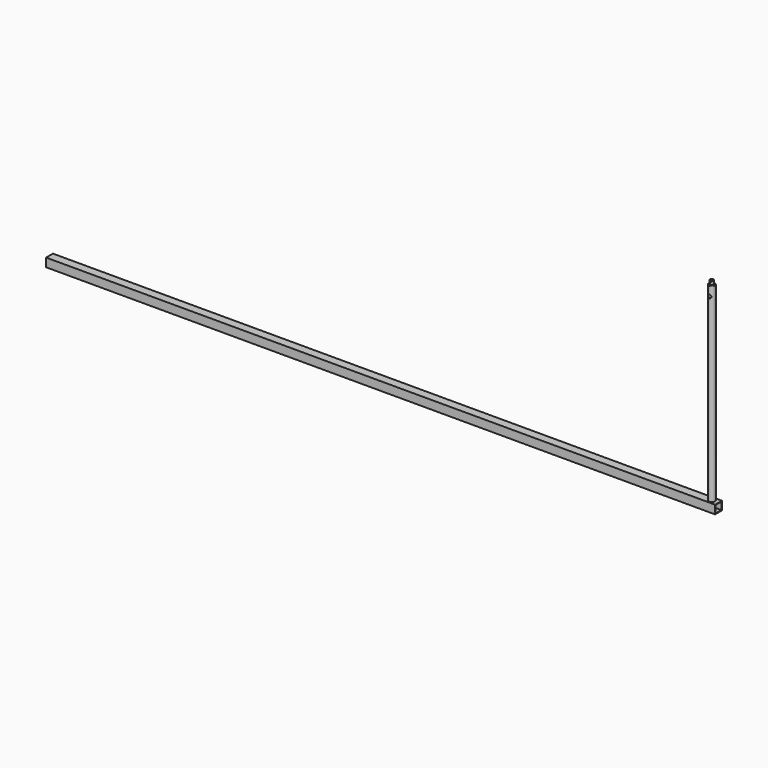
from build123d import *

# Parameters (mm, degrees)
F0_W      = 32
F0_H      = 32
F0_W_2    = 28
F0_H_2    = 28
F1_DEPTH  = 25
F2_DEPTH  = 2475
F3_R      = 11.55
F3_R_2    = 9.55
F4_DEPTH  = 710
F5_R      = 9.55
F6_DEPTH  = 25
F7_R      = 6.35
F8_DEPTH  = 15
F9_R      = 1.5
F10_DEPTH = 6.5
F11_R     = 9.55
F11_R_2   = 6.35
F12_DEPTH = 2
F13_R     = 6.35
F14_DEPTH = 25


with BuildPart() as f1:
    # F0 (on Right) → F1 (new body)
    with BuildSketch(Plane.YZ):
        Rectangle(F0_W, F0_H)
        Rectangle(F0_W_2, F0_H_2, mode=Mode.SUBTRACT)
    extrude(amount=F1_DEPTH)

    # F0 (on Right) → F2 (join)
    with BuildSketch(Plane.YZ):
        Rectangle(F0_W, F0_H)
        Rectangle(F0_W_2, F0_H_2, mode=Mode.SUBTRACT)
    extrude(amount=-F2_DEPTH)

    # F3 (on face) → F4 (join)
    with BuildSketch(Plane.XY.offset(16)):
        Circle(F3_R)
        Circle(F3_R_2, mode=Mode.SUBTRACT)
    extrude(amount=F4_DEPTH)

    # F13 (on Front) → F14 (cut)
    with BuildSketch(Plane.XZ):
        with Locations((0, 691)):
            Circle(F13_R)
    extrude(amount=F14_DEPTH, mode=Mode.SUBTRACT)


with BuildPart() as f6:
    # F5 (on face) → F6 (new body)
    with BuildSketch(Plane.XY.offset(726)):
        Circle(F5_R)
    extrude(amount=-F6_DEPTH)

    # F7 (on face) → F8 (join)
    with BuildSketch(Plane.XY.offset(726)):
        Circle(F7_R)
    extrude(amount=F8_DEPTH)

    # F9 (on Front) → F10 (cut, symmetric)
    with BuildSketch(Plane.XZ):
        with Locations((0, 736.5)):
            Circle(F9_R)
    extrude(amount=F10_DEPTH, both=True, mode=Mode.SUBTRACT)

    # F11 (on face) → F12 (join)
    with BuildSketch(Plane.XY.offset(726)):
        Circle(F11_R)
        Circle(F11_R_2, mode=Mode.SUBTRACT)
    extrude(amount=F12_DEPTH)


solid = Compound([f1.part, f6.part])
